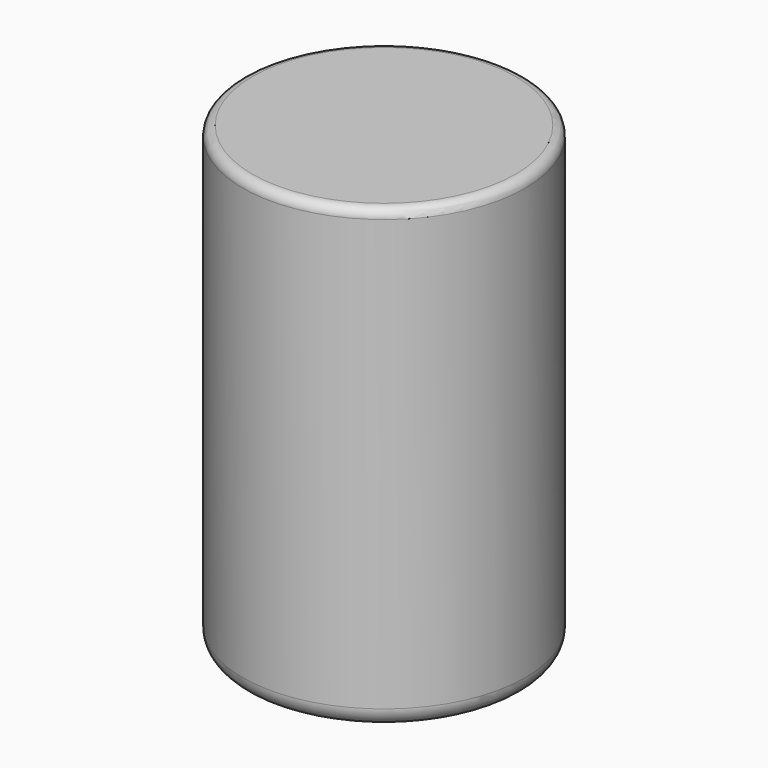
from build123d import *

# Parameters (mm, degrees)
F0_R     = 38.1
F2_DEPTH = 123.825
F1_R     = 31.75
F3_DEPTH = 121.92
F4_R     = 5.08
F5_R     = 2.54


with BuildPart() as f2:
    # F0 (on Top) → F2 (new body)
    with BuildSketch(Plane.XY):
        Circle(F0_R)
    extrude(amount=F2_DEPTH)

    # F1 (on Top) → F3 (cut)
    with BuildSketch(Plane.XY):
        Circle(F1_R)
    extrude(amount=F3_DEPTH, mode=Mode.SUBTRACT)

    # F4
    f4_edges = [f2.edges().sort_by_distance(p)[0] for p in [
        (-38.1, 0, 0),
    ]]
    fillet(f4_edges, radius=F4_R)

    # F5
    f5_edges = [f2.edges().sort_by_distance(p)[0] for p in [
        (-38.1, 0, 123.825),
    ]]
    fillet(f5_edges, radius=F5_R)


solid = f2.part
